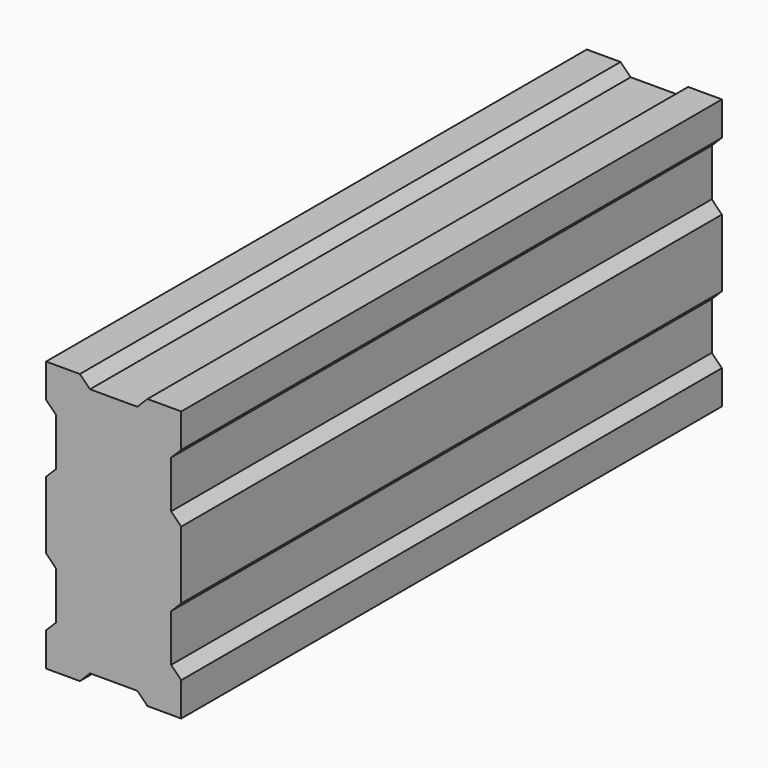
from build123d import *

# Parameters (mm, degrees)
F1_DEPTH = 100


with BuildPart() as f1:
    # F0 (on Front) → F1 (new body)
    with BuildSketch(Plane.XZ):
        Polygon((0, 5), (0, 0), (5, 0), (6.5, 1.5), (13.5, 1.5), (15, 0), (20, 0), (20, 5), (18.5, 6.5), (18.5, 13.5), (20, 15), (20, 25), (18.5, 26.5), (18.5, 33.5), (20, 35), (20, 40), (15, 40), (13.5, 38.5), (6.5, 38.5), (5, 40), (0, 40), (0, 35), (1.5, 33.5), (1.5, 26.5), (0, 25), (0, 15), (1.5, 13.5), (1.5, 6.5), align=None)
    extrude(amount=F1_DEPTH)


solid = f1.part
